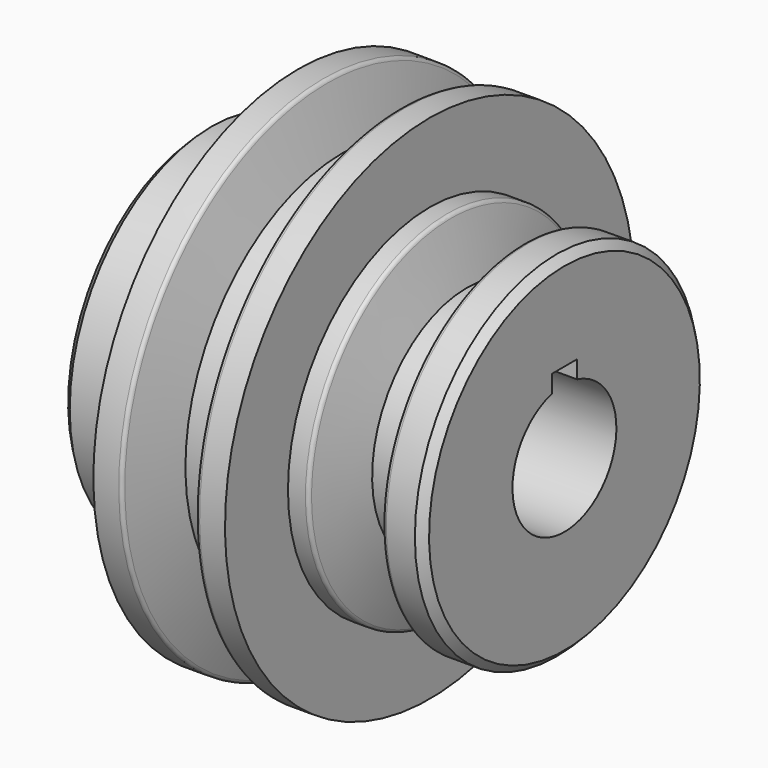
from build123d import *

# Parameters (mm, degrees)
F2_SIZE  = 1
F3_R     = 0.5
F4_W     = 4
F4_H     = 4
F5_DEPTH = 45.841
F6_R     = 2.75
F7_DEPTH = 25


with BuildPart() as f1:
    # F0 (on Front) → F1 (revolve)
    with BuildSketch(Plane.XZ):
        Polygon((-28.357783, 8.25), (-16.357783, 8.25), (0.362217, 8.25), (17.482217, 8.25), (17.482217, 22.5), (12.482217, 22.5), (10.389732, 15), (5.054703, 15), (2.962217, 22.5), (0.362217, 22.5), (0.362217, 32.5), (-3.237783, 32.5), (-5.330268, 25), (-10.665297, 25), (-12.757783, 32.5), (-16.357783, 32.5), (-16.357783, 22.5), (-28.357783, 22.5), align=None)
    revolve(axis=Axis((9.010959, 0, 0), (1, 0, 0)))

    # F2
    f2_edges = [f1.edges().sort_by_distance(p)[0] for p in [
        (-28.357783, 0, -22.5),
        (17.482217, 0, -22.5),
    ]]
    chamfer(f2_edges, length=F2_SIZE)

    # F3
    f3_edges = [f1.edges().sort_by_distance(p)[0] for p in [
        (-12.757783, 0, -32.5),
        (-3.237783, 0, -32.5),
        (2.962217, 0, -22.5),
        (12.482217, 0, -22.5),
    ]]
    fillet(f3_edges, radius=F3_R)

    # F4 (on face) → F5 (cut, through all)
    with BuildSketch(Plane(origin=(-28.357783, 0, 0), x_dir=(0, -1, 0), z_dir=(-1, 0, 0))):
        with Locations((0, 8.25)):
            Rectangle(F4_W, F4_H)
    extrude(amount=-F5_DEPTH, mode=Mode.SUBTRACT)

    # F6 (on Top) → F7 (cut)
    with BuildSketch(Plane.XY):
        with Locations((-22.139326, 0)):
            Circle(F6_R)
    extrude(amount=F7_DEPTH, mode=Mode.SUBTRACT)


solid = f1.part
